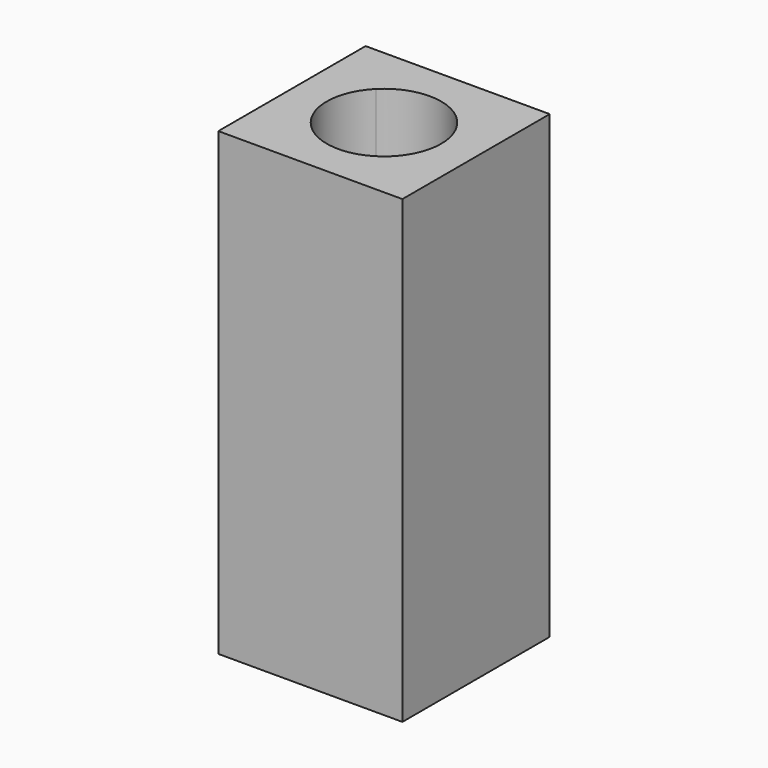
from build123d import *

# Parameters (mm, degrees)
F0_W     = 3.2
F0_H     = 3.2
F1_DEPTH = 8
F3_DEPTH = 25


with BuildPart() as f1:
    # F0 (on Top) → F1 (new body)
    with BuildSketch(Plane.XY):
        with Locations((1.6, 1.6)):
            Rectangle(F0_W, F0_H)
    extrude(amount=F1_DEPTH)

    # F2 (on face) → F3 (cut)
    with BuildSketch(Plane.XY.offset(8)):
        with BuildLine():
            Line((2.3035712473, 0.8964287527), (0.8964287527, 2.3035712473))
            ThreePointArc((0.8964287527, 2.3035712473), (0.8964287527, 0.8964287527), (2.3035712473, 0.8964287527))
        make_face()
        with BuildLine():
            ThreePointArc((2.595, 1.6), (1.9807700152, 2.5192601348), (0.8964287527, 2.3035712473))
            Line((0.8964287527, 2.3035712473), (2.3035712473, 0.8964287527))
            ThreePointArc((2.3035712473, 0.8964287527), (2.5192601348, 1.2192299848), (2.595, 1.6))
        make_face()
    extrude(amount=-F3_DEPTH, mode=Mode.SUBTRACT)


solid = f1.part
